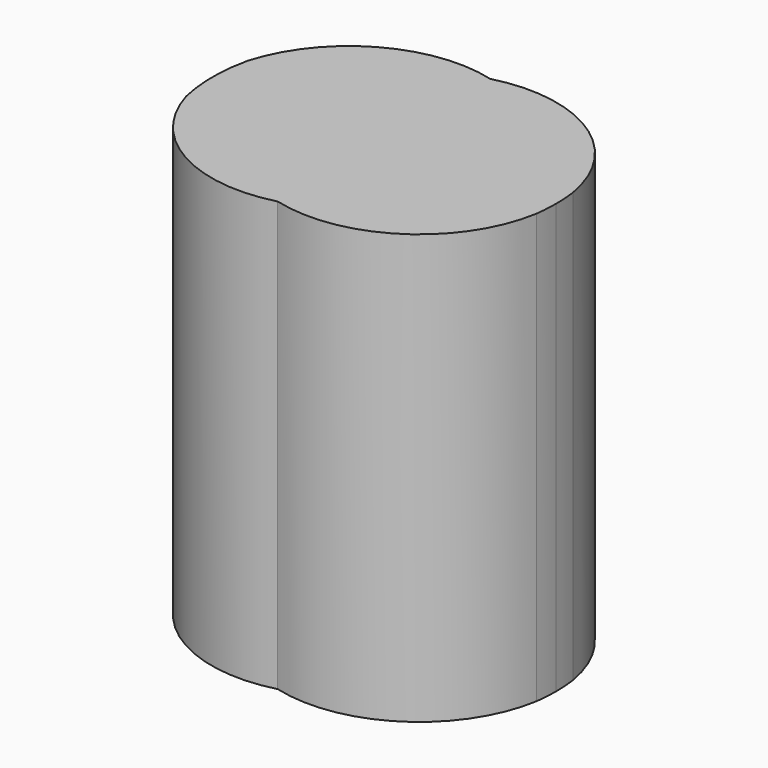
from build123d import *

# Parameters (mm, degrees)
F1_DEPTH = 5


with BuildPart() as f1:
    # F0 (on Top) → F1 (new body)
    with BuildSketch(Plane.XY):
        with BuildLine():
            ThreePointArc((-0.0043557084, 1.54688619), (-1.2002151566, 1.3930494801), (-1.9491454944, 0.4481426579))
            ThreePointArc((-1.9491454944, 0.4481426579), (-2, 0), (-1.9491454944, -0.4481426579))
            ThreePointArc((-1.9491454944, -0.4481426579), (-1.2002151566, -1.3930494801), (-0.0043557084, -1.54688619))
            ThreePointArc((-0.0043557084, -1.54688619), (-1.1955243066, 0), (-0.0043557084, 1.54688619))
        make_face()
        with BuildLine():
            ThreePointArc((1.1868128899, 0), (0.8545136122, 0.9761838344), (-0.0043557084, 1.54688619))
            ThreePointArc((-0.0043557084, 1.54688619), (-1.1955243066, 0), (-0.0043557084, -1.54688619))
            ThreePointArc((-0.0043557084, -1.54688619), (0.8545136122, -0.9761838344), (1.1868128899, 0))
        make_face()
        with BuildLine():
            ThreePointArc((1.982320091, -0.2653432812), (1.9955751279, -0.132965819), (2, 0))
            ThreePointArc((2, 0), (1.9955751279, 0.132965819), (1.982320091, 0.2653432812))
            ThreePointArc((1.982320091, 0.2653432812), (1.2717910356, 1.3445311811), (-0.0043557084, 1.54688619))
            ThreePointArc((-0.0043557084, 1.54688619), (0.8545136122, 0.9761838344), (1.1868128899, 0))
            ThreePointArc((1.1868128899, 0), (0.8545136122, -0.9761838344), (-0.0043557084, -1.54688619))
            ThreePointArc((-0.0043557084, -1.54688619), (1.2717910356, -1.3445311811), (1.982320091, -0.2653432812))
        make_face()
    extrude(amount=F1_DEPTH)


solid = f1.part
